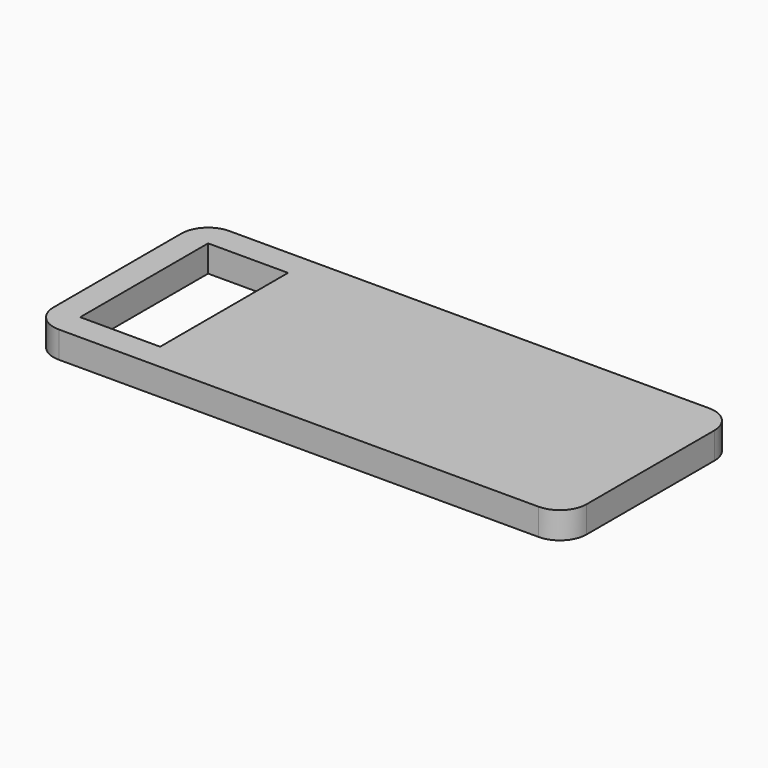
from build123d import *

# Parameters (mm, degrees)
F0_W     = 100
F0_H     = 40
F0_W_2   = 15
F0_H_2   = 30
F1_DEPTH = 5
F2_R     = 5


with BuildPart() as f1:
    # F0 (on Top) → F1 (new body)
    with BuildSketch(Plane.XY):
        Rectangle(F0_W, F0_H)
        with Locations((-37.5, 0)):
            Rectangle(F0_W_2, F0_H_2, mode=Mode.SUBTRACT)
    extrude(amount=F1_DEPTH)

    # F2
    f2_edges = [f1.edges().sort_by_distance(p)[0] for p in [
        (-50, -20, 2.5),
        (50, -20, 2.5),
        (50, 20, 2.5),
        (-50, 20, 2.5),
    ]]
    fillet(f2_edges, radius=F2_R)


solid = f1.part
